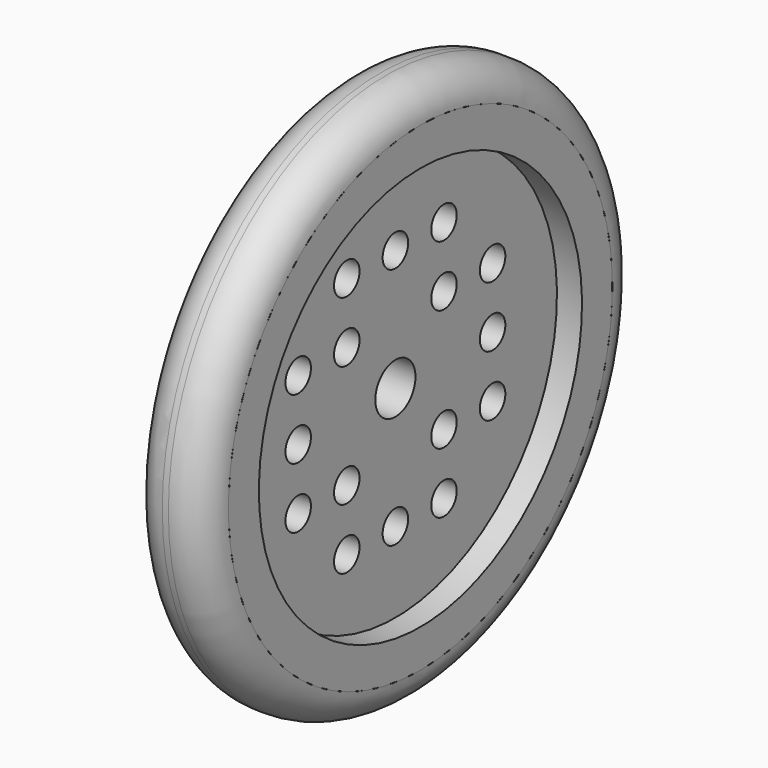
from build123d import *

# Parameters (mm, degrees)
F2_R     = 2.1
F3_DEPTH = 25


with BuildPart() as f1:
    # F0 (on Front) → F1 (revolve)
    with BuildSketch(Plane.XZ):
        Polygon((-9.3, 3.305546), (-3.3, 3.305546), (-3.3, 26.6), (0, 26.6), (0, 31.6), (-9.6, 31.6), (-9.6, 26.6), (-6.3, 26.6), (-6.3, 5.75), (-13.8, 5.75), (-13.8, 3.275203), (-10.361752, 3.275203), (-10.361752, 2.121251), (-9.3, 2.121251), align=None)
    revolve(axis=Axis((4.093945, 0, 0), (-1, 0, 0)))

    # F2 (on face) → F3 (cut)
    with BuildSketch(Plane.YZ.offset(-3.3)):
        with Locations((0, 16)):
            Circle(F2_R)
        with Locations((-8, 8)):
            Circle(F2_R)
        with Locations((-16, 0)):
            Circle(F2_R)
        with Locations((-8, -8)):
            Circle(F2_R)
        with Locations((0, -16)):
            Circle(F2_R)
        with Locations((8, -8)):
            Circle(F2_R)
        with Locations((16, 0)):
            Circle(F2_R)
        with Locations((8, 8)):
            Circle(F2_R)
        with Locations((-16, 8)):
            Circle(F2_R)
        with Locations((-8, 16)):
            Circle(F2_R)
        with Locations((8, 16)):
            Circle(F2_R)
        with Locations((16, 8)):
            Circle(F2_R)
        with Locations((16, -8)):
            Circle(F2_R)
        with Locations((-8, -16)):
            Circle(F2_R)
        with Locations((8, -16)):
            Circle(F2_R)
        with Locations((-16, -8)):
            Circle(F2_R)
    extrude(amount=-F3_DEPTH, mode=Mode.SUBTRACT)


with BuildPart() as f5:
    # F4 (on Top) → F5 (revolve)
    with BuildSketch(Plane.XY):
        with BuildLine():
            Line((-5.2, -36), (-4.4, -36))
            ThreePointArc((-4.4, -36), (-1.28873, -34.71127), (0, -31.6))
            Line((0, -31.6), (-9.6, -31.6))
            ThreePointArc((-9.6, -31.6), (-8.31127, -34.71127), (-5.2, -36))
        make_face()
    revolve(axis=Axis((0.911383, 0, 0), (1, 0, 0)))


solid = Compound([f1.part, f5.part])
